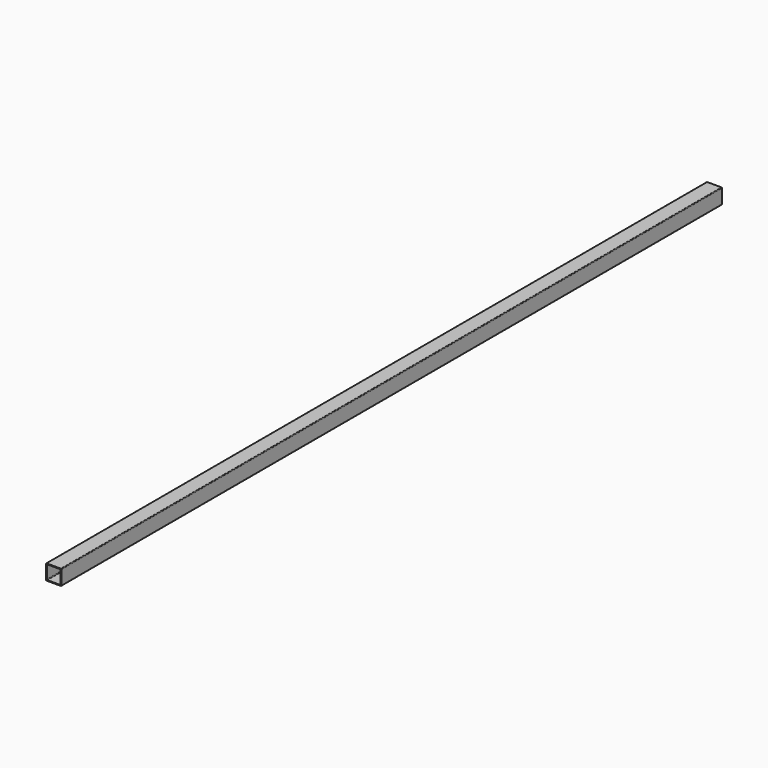
from build123d import *

# Parameters (mm, degrees)
F1_DEPTH = 1350


with BuildPart() as f1:
    # F0 (on Front) → F1 (new body, symmetric)
    with BuildSketch(Plane.XZ):
        with BuildLine():
            ThreePointArc((25, 23), (24.414214, 24.414214), (23, 25))
            Line((23, 25), (-23, 25))
            ThreePointArc((-23, 25), (-24.414214, 24.414214), (-25, 23))
            Line((-25, 23), (-25, -23))
            ThreePointArc((-25, -23), (-24.414214, -24.414214), (-23, -25))
            Line((-23, -25), (23, -25))
            ThreePointArc((23, -25), (24.414214, -24.414214), (25, -23))
            Line((25, -23), (25, 23))
        make_face()
        with BuildLine():
            Line((-20.5, 22.5), (20.5, 22.5))
            ThreePointArc((20.5, 22.5), (21.914214, 21.914214), (22.5, 20.5))
            Line((22.5, 20.5), (22.5, -20.5))
            ThreePointArc((22.5, -20.5), (21.914214, -21.914214), (20.5, -22.5))
            Line((20.5, -22.5), (-20.5, -22.5))
            ThreePointArc((-20.5, -22.5), (-21.914214, -21.914214), (-22.5, -20.5))
            Line((-22.5, -20.5), (-22.5, 20.5))
            ThreePointArc((-22.5, 20.5), (-21.914214, 21.914214), (-20.5, 22.5))
        make_face(mode=Mode.SUBTRACT)
    extrude(amount=F1_DEPTH, both=True)


solid = f1.part
